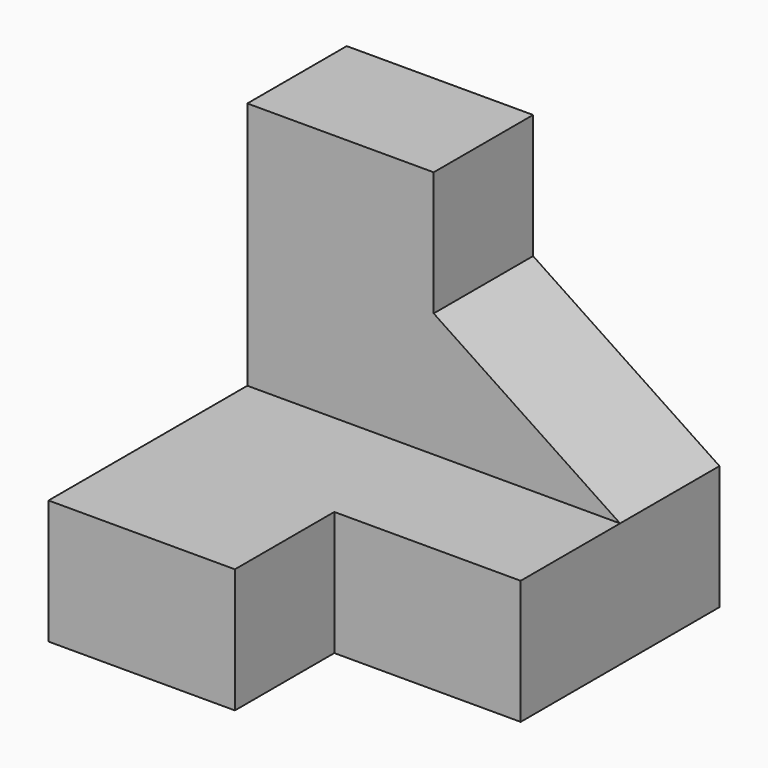
from build123d import *

# Parameters (mm, degrees)
F1_DEPTH = 15
F3_DEPTH = 10.001
F4_W     = 15
F4_H     = 10
F5_DEPTH = 10.001


with BuildPart() as f1:
    # F0 (on Right) → F1 (new body, symmetric)
    with BuildSketch(Plane.YZ):
        Polygon((0, 10), (0, 0), (30, 0), (30, 30), (20, 30), (20, 10), align=None)
    extrude(amount=F1_DEPTH, both=True)

    # F2 (on face) → F3 (cut, through all)
    with BuildSketch(Plane.XZ.offset(-20)):
        Polygon((15, 30), (0, 30), (0, 20), (15, 10), align=None)
    extrude(amount=-F3_DEPTH, mode=Mode.SUBTRACT)

    # F4 (on face) → F5 (cut, through all)
    with BuildSketch(Plane.XY.offset(10)):
        with Locations((7.5, 5)):
            Rectangle(F4_W, F4_H)
    extrude(amount=-F5_DEPTH, mode=Mode.SUBTRACT)


solid = f1.part
